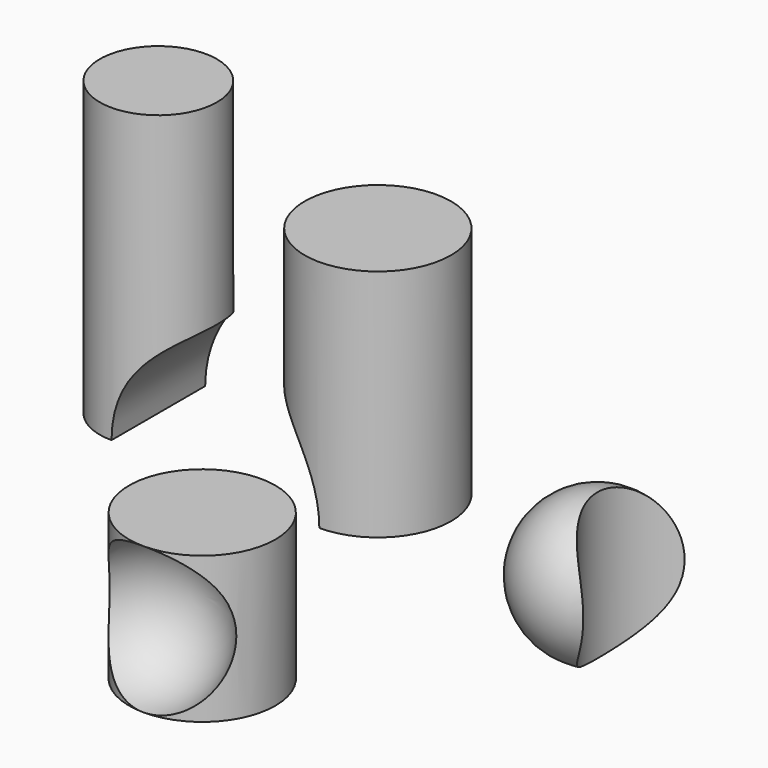
from build123d import *

# Parameters (mm, degrees)
F0_R      = 25
F1_DEPTH  = 80
F2_R      = 20
F3_DEPTH  = 100
F4_R      = 37.5
F5_DEPTH  = 30
F8_R      = 25
F9_DEPTH  = 50
F10_R     = 25
F11_DEPTH = 25


with BuildPart() as f1:
    # F0 (on Top) → F1 (new body)
    with BuildSketch(Plane.XY):
        Circle(F0_R)
    extrude(amount=F1_DEPTH)


with BuildPart() as f3:
    # F2 (on Top) → F3 (new body)
    with BuildSketch(Plane.XY):
        with Locations((-75, 0)):
            Circle(F2_R)
    extrude(amount=F3_DEPTH)


with BuildPart() as f5_tool:
    # F4 (on Front) → F5 (new body, symmetric)
    with BuildSketch(Plane.XZ):
        with Locations((-37.5, 0)):
            Circle(F4_R)
    extrude(amount=F5_DEPTH, both=True)


with BuildPart() as f1_1:
    add(f1.part)

    # F5: cut by f5_tool
    add(f5_tool.part, mode=Mode.SUBTRACT)


with BuildPart() as f3_1:
    add(f3.part)

    # F5: cut by f5_tool
    add(f5_tool.part, mode=Mode.SUBTRACT)


with BuildPart() as f7:
    # F6 (on Top) → F7 (revolve)
    with BuildSketch(Plane.XY):
        with BuildLine():
            Line((50, 0), (100, 0))
            ThreePointArc((100, 0), (75, 25), (50, 0))
        make_face()
    revolve(axis=Axis((75, 0, 0), (1, 0, 0)))

    # F8 (on Top) → F9 (cut, symmetric)
    with BuildSketch(Plane.XY):
        with Locations((100, 0)):
            Circle(F8_R)
    extrude(amount=F9_DEPTH, both=True, mode=Mode.SUBTRACT)


with BuildPart() as f11:
    # F10 (on Top) → F11 (new body, symmetric)
    with BuildSketch(Plane.XY):
        with Locations((0, -75)):
            Circle(F10_R)
    extrude(amount=F11_DEPTH, both=True)

    # F12 (on Top) → F13 (revolve, cut)
    with BuildSketch(Plane.XY):
        with BuildLine():
            Line((0, -75), (0, -125))
            ThreePointArc((0, -125), (25, -100), (0, -75))
        make_face()
    revolve(axis=Axis((0, -100, 0), (0, 1, 0)), mode=Mode.SUBTRACT)


solid = Compound([f1_1.part, f3_1.part, f7.part, f11.part])
